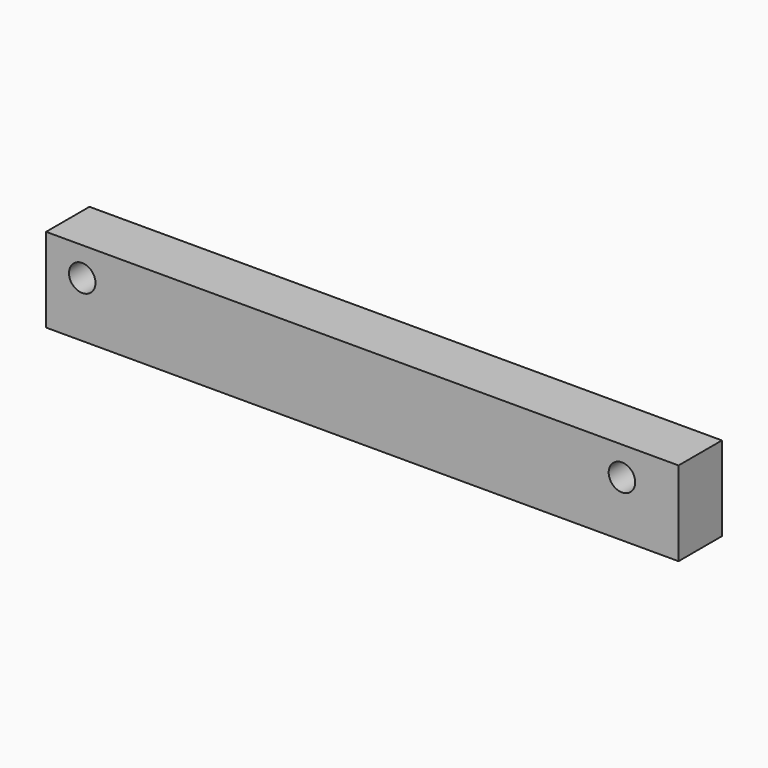
from build123d import *

# Parameters (mm, degrees)
F0_W     = 525
F0_H     = 70
F1_DEPTH = 45
F2_R     = 11
F3_DEPTH = 45.001
F4_R     = 11
F5_DEPTH = 45.001


with BuildPart() as f1:
    # F0 (on Front) → F1 (new body)
    with BuildSketch(Plane.XZ):
        with Locations((-262.5, -35)):
            Rectangle(F0_W, F0_H)
    extrude(amount=F1_DEPTH)

    # F2 (on face) → F3 (cut, through all)
    with BuildSketch(Plane(origin=(0, 0, 0), x_dir=(-1, 0, 0), z_dir=(0, 1, 0))):
        with Locations((495, -24)):
            Circle(F2_R)
    extrude(amount=-F3_DEPTH, mode=Mode.SUBTRACT)

    # F4 (on face) → F5 (cut, through all)
    with BuildSketch(Plane(origin=(0, 0, 0), x_dir=(-1, 0, 0), z_dir=(0, 1, 0))):
        with Locations((47, -24)):
            Circle(F4_R)
    extrude(amount=-F5_DEPTH, mode=Mode.SUBTRACT)


solid = f1.part
